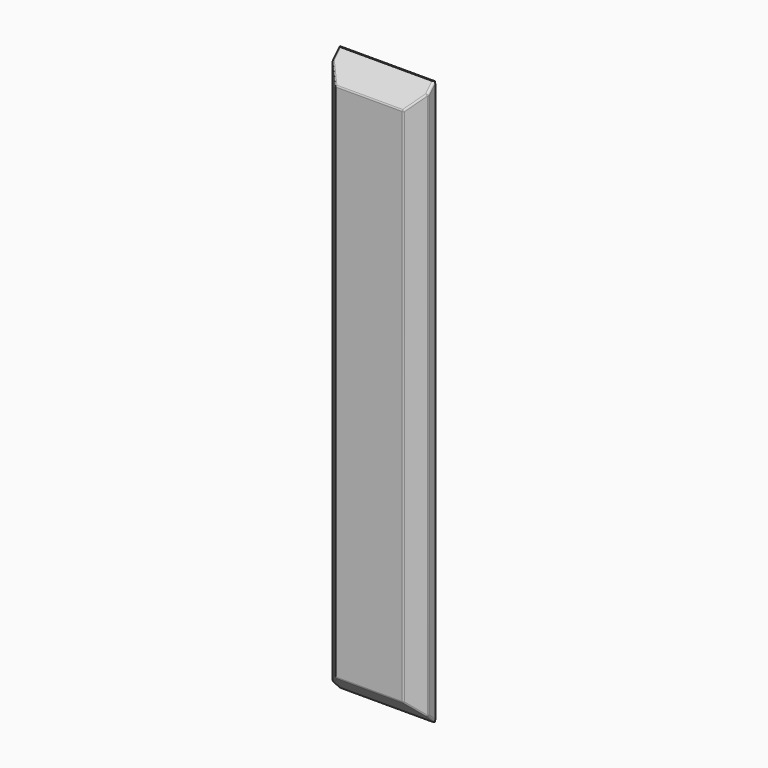
from build123d import *

# Parameters (mm, degrees)
F0_W     = 170
F0_H     = 40
F1_DEPTH = 1000
F3_DEPTH = 170.001
F4_SIZE2 = 25
F4_SIZE  = 25
F5_SIZE2 = 25
F5_SIZE  = 25
F6_R     = 4


with BuildPart() as f1:
    # F0 (on Top) → F1 (new body)
    with BuildSketch(Plane.XY):
        Rectangle(F0_W, F0_H)
    extrude(amount=F1_DEPTH)

    # F2 (on face) → F3 (cut, through all)
    with BuildSketch(Plane.YZ.offset(85)):
        Polygon((-20, 0), (18, 0), (-20, 38), align=None)
        Polygon((-20, 962), (18, 1000), (-20, 1000), align=None)
    extrude(amount=-F3_DEPTH, mode=Mode.SUBTRACT)

    # F4
    f4_edges = [f1.edges().sort_by_distance(p)[0] for p in [
        (85, -20, 500),
    ]]
    chamfer(f4_edges, length=F4_SIZE, length2=F4_SIZE2)

    # F5
    f5_edges = [f1.edges().sort_by_distance(p)[0] for p in [
        (-85, -20, 500),
    ]]
    chamfer(f5_edges, length=F5_SIZE, length2=F5_SIZE2)

    # F6
    f6_edges = [f1.edges().sort_by_distance(p)[0] for p in [
        (60, -20, 500),
        (0, -20, 38),
        (72.5, -7.5, 25.5),
        (85, 11.5, 6.5),
        (85, 5, 500),
        (-85, 11.5, 6.5),
        (-72.5, -7.5, 25.5),
        (-60, -20, 500),
        (72.5, -7.5, 974.5),
        (0, -20, 962),
        (85, 11.5, 993.5),
        (-72.5, -7.5, 974.5),
        (-85, 11.5, 993.5),
        (-85, 5, 500),
    ]]
    fillet(f6_edges, radius=F6_R)


solid = f1.part
